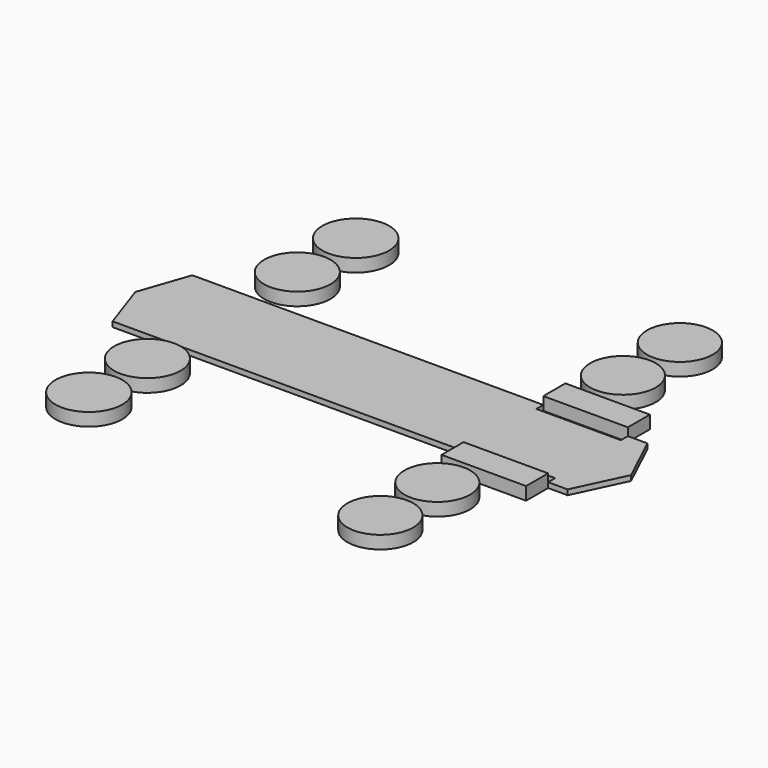
from build123d import *

# Parameters (mm, degrees)
F0_R     = 64.103198
F0_R_2   = 64.487611
F0_R_3   = 63.516402
F0_R_4   = 63.423458
F0_W     = 163.217172
F0_H     = 53.122573
F0_H_2   = 53.122572
F1_DEPTH = 25
F2_DEPTH = 10


with BuildPart() as f1:
    # F0 (on Top) → F1 (new body)
    with BuildSketch(Plane.XY):
        with Locations((-396.319538, 198.23274)):
            Circle(F0_R)
        with Locations((-396.425158, 339.358509)):
            Circle(F0_R_2)
        with Locations((197.712183, 378.739387)):
            Circle(F0_R_3)
        with Locations((197.740838, 241.354287)):
            Circle(F0_R_4)
        with Locations((197.740838, -206.58958)):
            Circle(F0_R_4)
        with Locations((197.712183, -343.97468)):
            Circle(F0_R_3)
        with Locations((-396.319538, -163.468033)):
            Circle(F0_R)
        with Locations((-396.425158, -304.593801)):
            Circle(F0_R_2)
        with Locations((227.889337, 140.180174)):
            Rectangle(F0_W, F0_H)
        with Locations((227.889337, -105.415467)):
            Rectangle(F0_W, F0_H_2)
    extrude(amount=F1_DEPTH)


with BuildPart() as f2:
    # F0 (on Top) → F2 (new body)
    with BuildSketch(Plane.XY):
        Polygon((146.280751, 113.618888), (-531.224489, 113.618888), (-564.329803, 17.382354), (-531.224489, -78.854181), (146.280751, -78.854181), (146.280751, -61.916552), (309.497923, -61.916552), (309.497923, -78.854181), (347.222656, -78.854181), (392.646283, 17.382354), (347.222656, 113.618888), (309.497923, 113.618888), (309.497923, 96.68126), (146.280751, 96.68126), align=None)
    extrude(amount=F2_DEPTH)


solid = Compound([f1.part, f2.part])
